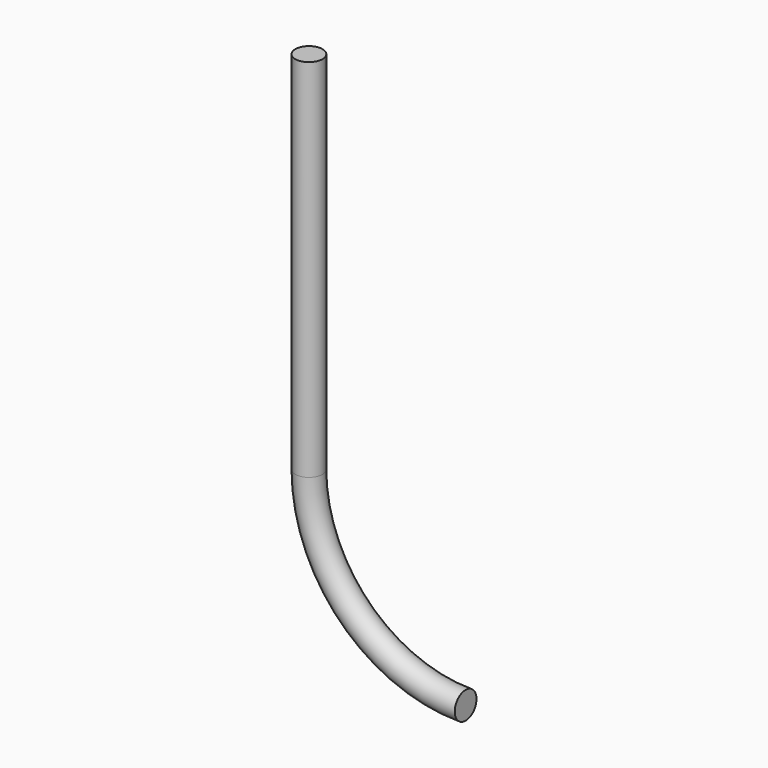
from build123d import *

# Parameters (mm, degrees)
F1_R      = 3.302
F3_ANGLE  = 90
F3_FACE_R = 3.302
F4_DEPTH  = 88.9


with BuildPart() as f3:
    # F1 (on Top) → F3 (revolve)
    with BuildSketch(Plane.XY):
        with Locations((-38.1, 0)):
            Circle(F1_R)
    revolve(axis=Axis((0, 1.589603, 0), (0, -1, 0)), revolution_arc=F3_ANGLE)

    # F3_face (on face) → F4 (join)
    with BuildSketch(Plane(origin=(-38.1, 0, 0), x_dir=(1, 0, 0), z_dir=(0, 0, 1))):
        Circle(F3_FACE_R)
    extrude(amount=F4_DEPTH)


solid = f3.part
